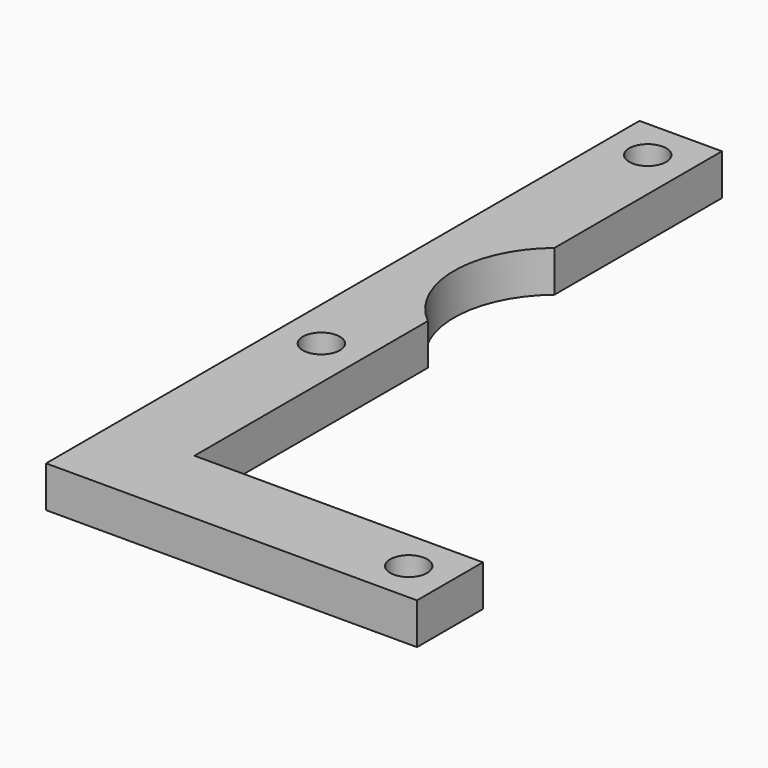
from build123d import *

# Parameters (mm, degrees)
F0_R     = 2.25
F1_DEPTH = 5


with BuildPart() as f1:
    # F0 (on Top) → F1 (new body)
    with BuildSketch(Plane.XY):
        with BuildLine():
            Line((-46.536908, 38.243275), (-56.536908, 38.243275))
            Line((-56.536908, 38.243275), (-56.536908, -51.756725))
            Line((-56.536908, -51.756725), (-46.536908, -51.756725))
            Line((-46.536908, -51.756725), (-11.536908, -51.756725))
            Line((-11.536908, -51.756725), (-11.536908, -41.756725))
            Line((-11.536908, -41.756725), (-46.536908, -41.756725))
            Line((-46.536908, -41.756725), (-46.536908, -6.361411))
            ThreePointArc((-46.536908, -6.361411), (-51.036908, 3.243275), (-46.536908, 12.847962))
            Line((-46.536908, 12.847962), (-46.536908, 38.243275))
        make_face()
        with Locations((-51.536908, -16.256725)):
            Circle(F0_R, mode=Mode.SUBTRACT)
        with Locations((-16.536908, -46.756725)):
            Circle(F0_R, mode=Mode.SUBTRACT)
        with Locations((-51.536908, 33.243275)):
            Circle(F0_R, mode=Mode.SUBTRACT)
    extrude(amount=F1_DEPTH)


solid = f1.part
